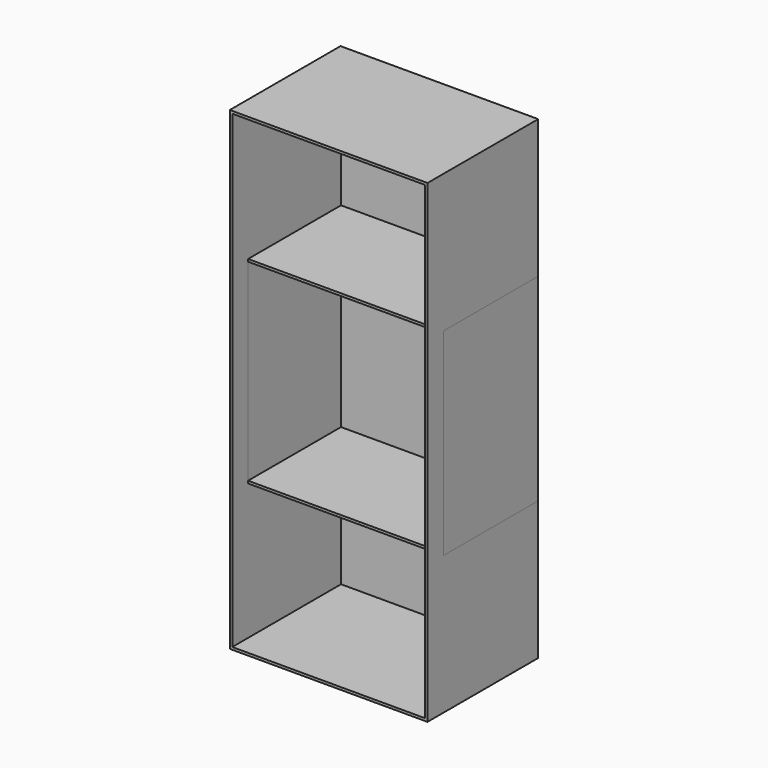
from build123d import *

# Parameters (mm, degrees)
F0_W     = 508
F0_H     = 1219.2
F1_DEPTH = 355.6
F2_W     = 508
F2_H     = 508
F3_DEPTH = 304.8
F4_T     = -6.35
F5_T     = -6.35


with BuildPart() as f1:
    # F0 (on Front) → F1 (new body)
    with BuildSketch(Plane.XZ):
        Rectangle(F0_W, F0_H)
    extrude(amount=F1_DEPTH)

    # F5
    f5_openings = [f1.faces().sort_by_distance(p)[0] for p in [
        (0, -355.6, 0),
    ]]
    offset(amount=F5_T, openings=f5_openings)


with BuildPart() as f3:
    # F2 (on Front) → F3 (new body)
    with BuildSketch(Plane.XZ):
        Rectangle(F2_W, F2_H)
    extrude(amount=F3_DEPTH)

    # F4
    f4_openings = [f3.faces().sort_by_distance(p)[0] for p in [
        (0, -304.8, 0),
    ]]
    offset(amount=F4_T, openings=f4_openings)


solid = Compound([f1.part, f3.part])
